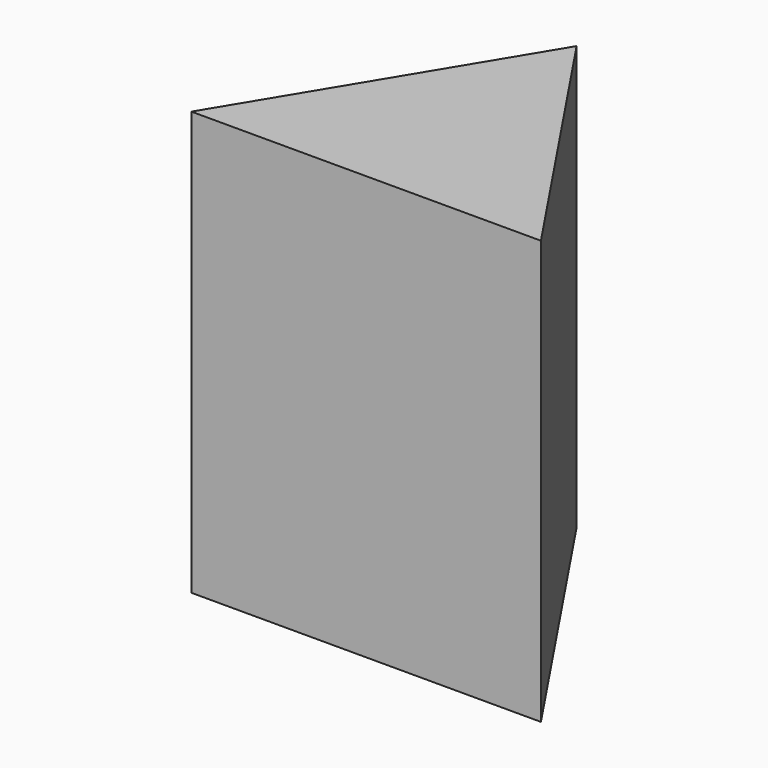
from build123d import *

# Parameters (mm, degrees)
F1_DEPTH = 75.692


with BuildPart() as f1:
    # F0 (on Top) → F1 (new body)
    with BuildSketch(Plane.XY):
        Polygon((29.604906, 49.039036), (0, 0), (62.4572, 0), align=None)
    extrude(amount=-F1_DEPTH)


solid = f1.part
